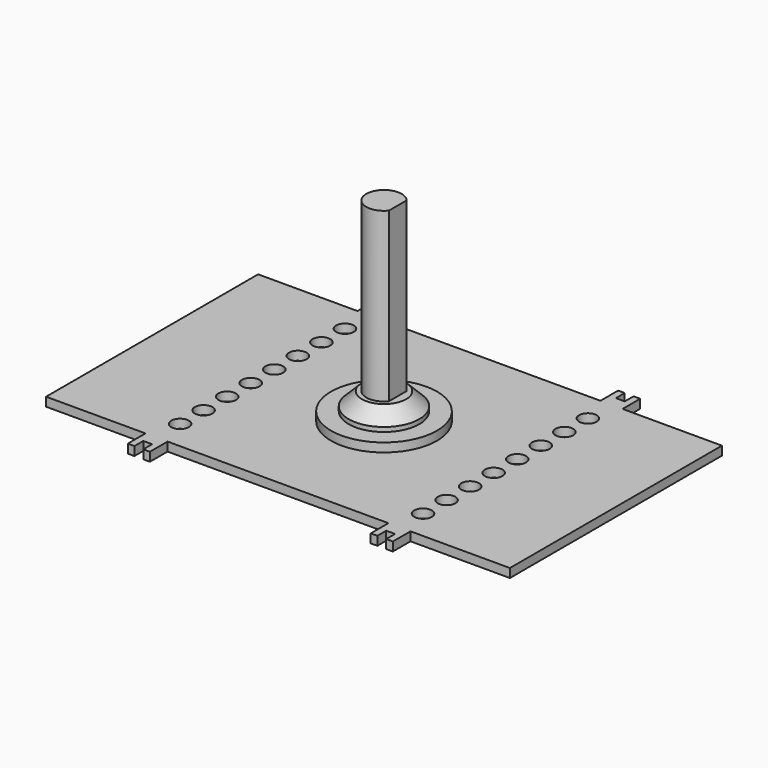
from build123d import *

# Parameters (mm, degrees)
SKETCH_R     = 2
PAD_DEPTH    = 2
SKETCH001_R  = 4
PAD001_DEPTH = 46
SKETCH002_R  = 8
PAD002_DEPTH = 8
SKETCH003_R  = 12
PAD003_DEPTH = 4
POCKET_DEPTH = 38
CHAMFER_SIZE = 3


with BuildPart() as part:
    # Sketch → Pad (new body)
    with BuildSketch(Plane.XY):
        Polygon((105, 0), (105, 60), (82.5, 60), (82.5, 65), (81, 65), (81, 62.5), (80, 62.5), (79, 62.5), (79, 65), (77.5, 65), (77.5, 60), (27.5, 60), (27.5, 65), (26, 65), (26, 62.5), (25, 62.5), (24, 62.5), (24, 65), (22.5, 65), (22.5, 60), (0, 60), (0, 0), (22.5, 0), (22.5, -5), (24, -5), (24, -2.5), (25, -2.5), (26, -2.5), (26, -5), (27.5, -5), (27.5, 0), (77.5, 0), (77.5, -5), (79, -5), (79, -2.5), (80, -2.5), (81, -2.5), (81, -5), (82.5, -5), (82.5, 0), align=None)
        with Locations((25, 46.666667)):
            Circle(SKETCH_R, mode=Mode.SUBTRACT)
        with Locations((25, 40)):
            Circle(SKETCH_R, mode=Mode.SUBTRACT)
        with Locations((25, 33.333333)):
            Circle(SKETCH_R, mode=Mode.SUBTRACT)
        with Locations((25, 26.666667)):
            Circle(SKETCH_R, mode=Mode.SUBTRACT)
        with Locations((25, 20)):
            Circle(SKETCH_R, mode=Mode.SUBTRACT)
        with Locations((25, 13.333333)):
            Circle(SKETCH_R, mode=Mode.SUBTRACT)
        with Locations((25, 6.666667)):
            Circle(SKETCH_R, mode=Mode.SUBTRACT)
        with Locations((80, 6.666667)):
            Circle(SKETCH_R, mode=Mode.SUBTRACT)
        with Locations((80, 13.333333)):
            Circle(SKETCH_R, mode=Mode.SUBTRACT)
        with Locations((80, 20)):
            Circle(SKETCH_R, mode=Mode.SUBTRACT)
        with Locations((80, 26.666667)):
            Circle(SKETCH_R, mode=Mode.SUBTRACT)
        with Locations((80, 33.333333)):
            Circle(SKETCH_R, mode=Mode.SUBTRACT)
        with Locations((80, 46.666667)):
            Circle(SKETCH_R, mode=Mode.SUBTRACT)
        with Locations((80, 40)):
            Circle(SKETCH_R, mode=Mode.SUBTRACT)
        with Locations((25, 53.333333)):
            Circle(SKETCH_R, mode=Mode.SUBTRACT)
        with Locations((80, 53.333333)):
            Circle(SKETCH_R, mode=Mode.SUBTRACT)
    extrude(amount=PAD_DEPTH)

    # Sketch001 → Pad001 (join)
    with BuildSketch(Plane.XY):
        with Locations((52.5, 30)):
            Circle(SKETCH001_R)
    extrude(amount=PAD001_DEPTH)

    # Sketch002 → Pad002 (join)
    with BuildSketch(Plane.XY):
        with Locations((52.5, 30)):
            Circle(SKETCH002_R)
    extrude(amount=PAD002_DEPTH)

    # Sketch003 → Pad003 (join)
    with BuildSketch(Plane.XY):
        with Locations((52.5, 30)):
            Circle(SKETCH003_R)
    extrude(amount=PAD003_DEPTH)

    # Sketch004 → Pocket (cut)
    with BuildSketch(Plane.XY.offset(46)):
        with BuildLine():
            Line((55.622499, 32.5), (55.622499, 27.5))
            ThreePointArc((55.622499, 27.5), (56.5, 30), (55.622499, 32.5))
        make_face()
    extrude(amount=-POCKET_DEPTH, mode=Mode.SUBTRACT)

    # Chamfer
    chamfer_edges = [part.edges().sort_by_distance(p)[0] for p in [
        (44.5, 30, 8),
    ]]
    chamfer(chamfer_edges, length=CHAMFER_SIZE)


solid = part.part
